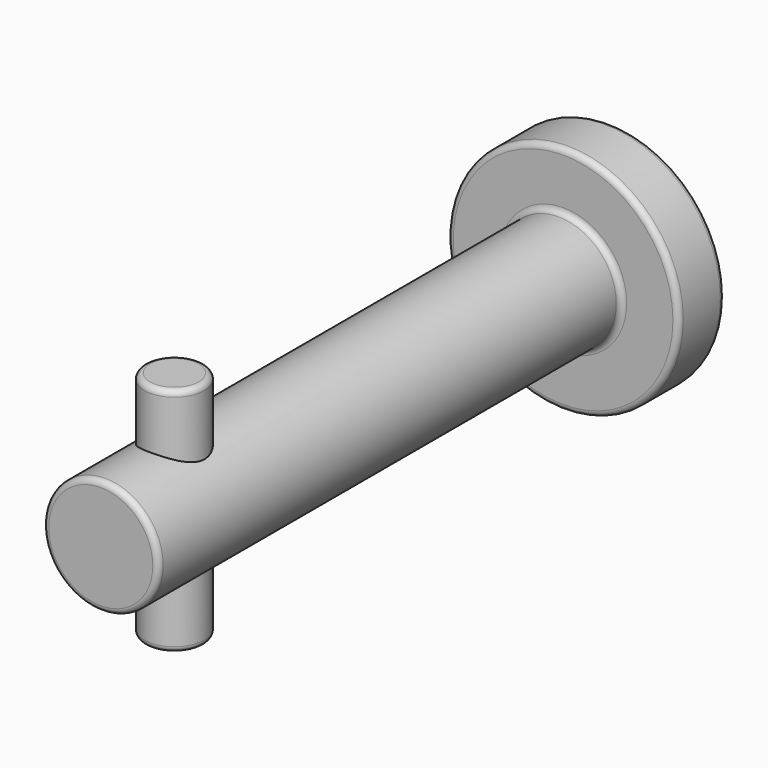
from build123d import *

# Parameters (mm, degrees)
F0_R          = 10
F1_DEPTH      = 5
F2_R          = 5
F3_DEPTH      = 50
F4_R          = 0.5
F5_R          = 2.605382
F6_DEPTH      = 10
F6_DEPTH_BACK = 10
F7_R          = 0.5


with BuildPart() as f1:
    # F0 (on Front) → F1 (new body)
    with BuildSketch(Plane.XZ):
        Circle(F0_R)
    extrude(amount=F1_DEPTH)

    # F2 (on face) → F3 (join)
    with BuildSketch(Plane.XZ.offset(5)):
        Circle(F2_R)
    extrude(amount=F3_DEPTH)

    # F4
    f4_edges = [f1.edges().sort_by_distance(p)[0] for p in [
        (-10, -5, 0),
        (-10, 0, 0),
        (-5, -5, 0),
        (-5, -55, 0),
    ]]
    fillet(f4_edges, radius=F4_R)

    # F5 (on Top) → F6 (join, two sides)
    with BuildSketch(Plane.XY) as f6_sk:
        with Locations((0, -47.036547)):
            Circle(F5_R)
    extrude(amount=F6_DEPTH)
    extrude(f6_sk.sketch, amount=-F6_DEPTH_BACK)

    # F7
    f7_edges = [f1.edges().sort_by_distance(p)[0] for p in [
        (-2.605382, -47.036547, 10),
        (-2.605382, -47.036547, -10),
    ]]
    fillet(f7_edges, radius=F7_R)


solid = f1.part
